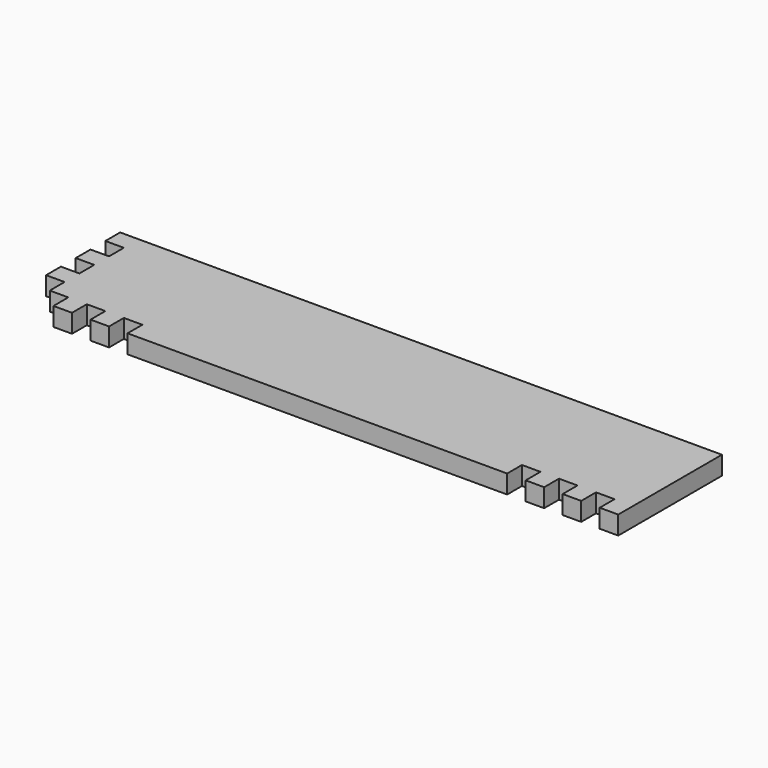
from build123d import *

# Parameters (mm, degrees)
F0_W     = 412.75
F0_H     = 88.9
F1_DEPTH = 12.7
F2_W     = 12.7
F2_H     = 25.4
F2_H_2   = 12.7
F3_DEPTH = 25.4
F4_W     = 12.7
F4_H     = 12.7
F5_DEPTH = 25.4
F6_W     = 12.7
F6_H     = 12.7
F7_DEPTH = 25.4


with BuildPart() as f1:
    # F0 (on Top) → F1 (new body)
    with BuildSketch(Plane.XY):
        with Locations((206.375, 44.45)):
            Rectangle(F0_W, F0_H)
    extrude(amount=F1_DEPTH)

    # F2 (on face) → F3 (cut)
    with BuildSketch(Plane.XY.offset(12.7)):
        with Locations((6.35, 12.7)):
            Rectangle(F2_W, F2_H)
        with Locations((6.35, 69.85)):
            Rectangle(F2_W, F2_H_2)
        with Locations((6.35, 44.45)):
            Rectangle(F2_W, F2_H_2)
    extrude(amount=-F3_DEPTH, mode=Mode.SUBTRACT)

    # F4 (on face) → F5 (cut)
    with BuildSketch(Plane.XY.offset(12.7)):
        with Locations((393.7, 6.35)):
            Rectangle(F4_W, F4_H)
        with Locations((368.3, 6.35)):
            Rectangle(F4_W, F4_H)
        with Locations((342.9, 6.35)):
            Rectangle(F4_W, F4_H)
    extrude(amount=-F5_DEPTH, mode=Mode.SUBTRACT)

    # F6 (on face) → F7 (cut)
    with BuildSketch(Plane.XY.offset(12.7)):
        with Locations((19.05, 6.35)):
            Rectangle(F6_W, F6_H)
        with Locations((44.45, 6.35)):
            Rectangle(F6_W, F6_H)
        with Locations((69.85, 6.35)):
            Rectangle(F6_W, F6_H)
    extrude(amount=-F7_DEPTH, mode=Mode.SUBTRACT)


solid = f1.part
